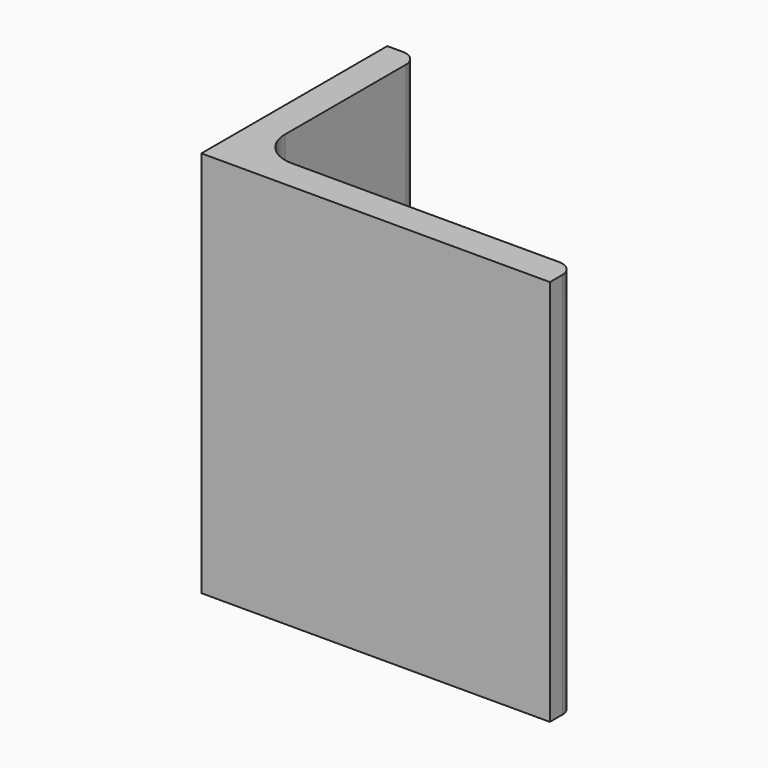
from build123d import *

# Parameters (mm, degrees)
EXTRUDE_DEPTH = 50


with BuildPart() as part:
    # Sketch → Extrude (new body)
    with BuildSketch(Plane.XY):
        with BuildLine():
            Line((0, 0), (45, 0))
            Line((45, 0), (45, 2))
            ThreePointArc((45, 2), (44.414214, 3.414214), (43, 4))
            Line((43, 4), (8.5, 4))
            ThreePointArc((4, 8.5), (5.318019, 5.318019), (8.5, 4))
            Line((4, 28), (4, 8.5))
            ThreePointArc((4, 28), (3.414214, 29.414214), (2, 30))
            Line((0, 30), (2, 30))
            Line((0, 0), (0, 30))
        make_face()
    extrude(amount=EXTRUDE_DEPTH)


solid = part.part
